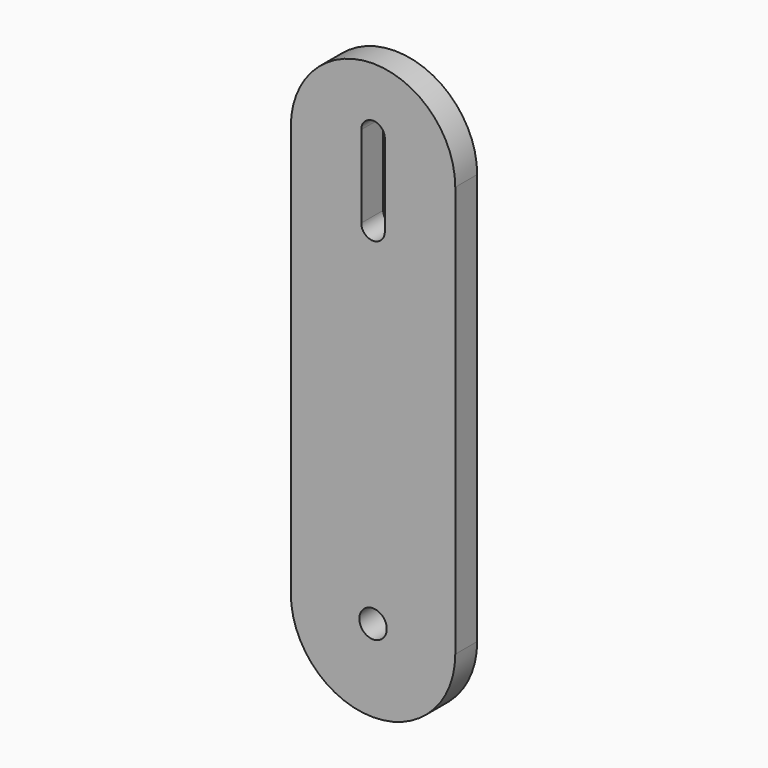
from build123d import *

# Parameters (mm, degrees)
F1_DEPTH = 5


with BuildPart() as f1:
    # F0 (on Front) → F1 (new body)
    with BuildSketch(Plane.XZ):
        with BuildLine():
            Line((-15, 75), (-15, 0))
            Line((-15, 0), (-2.5, 0))
            ThreePointArc((-2.5, 0), (0, 2.5), (2.5, 0))
            Line((2.5, 0), (15, 0))
            Line((15, 0), (15, 75))
            Line((15, 75), (2.15, 75))
            Line((2.15, 75), (2.15, 63.660838))
            ThreePointArc((2.15, 63.660838), (0, 61.510838), (-2.15, 63.660838))
            Line((-2.15, 63.660838), (-2.15, 75))
            Line((-2.15, 75), (-15, 75))
        make_face()
        with BuildLine():
            Line((-2.5, 0), (-15, 0))
            ThreePointArc((-15, 0), (0, -15), (15, 0))
            Line((15, 0), (2.5, 0))
            ThreePointArc((2.5, 0), (0, -2.5), (-2.5, 0))
        make_face()
        with BuildLine():
            ThreePointArc((15, 75), (0, 90), (-15, 75))
            Line((-15, 75), (-2.15, 75))
            Line((-2.15, 75), (-2.15, 78.660838))
            ThreePointArc((-2.15, 78.660838), (0, 80.810838), (2.15, 78.660838))
            Line((2.15, 78.660838), (2.15, 75))
            Line((2.15, 75), (15, 75))
        make_face()
    extrude(amount=F1_DEPTH)


solid = f1.part
